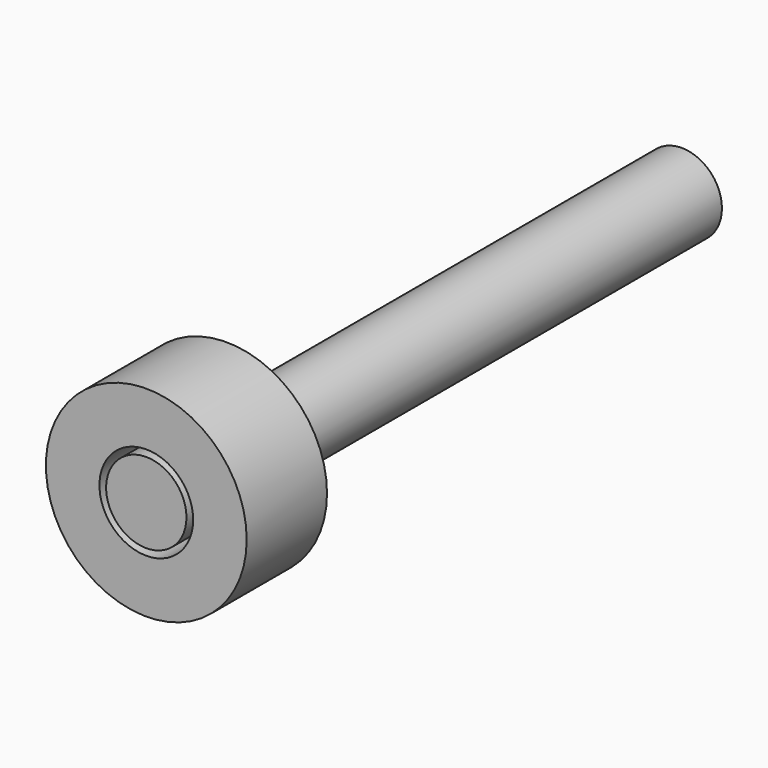
from build123d import *

# Parameters (mm, degrees)
F0_R     = 6
F1_DEPTH = 100
F2_R     = 15
F2_R_2   = 7
F3_DEPTH = 15


with BuildPart() as f1:
    # F0 (on Front) → F1 (new body)
    with BuildSketch(Plane.XZ):
        Circle(F0_R)
    extrude(amount=-F1_DEPTH)


with BuildPart() as f3:
    # F2 (on face) → F3 (new body)
    with BuildSketch(Plane.XZ):
        Circle(F2_R)
        Circle(F2_R_2, mode=Mode.SUBTRACT)
    extrude(amount=-F3_DEPTH)


solid = Compound([f1.part, f3.part])
